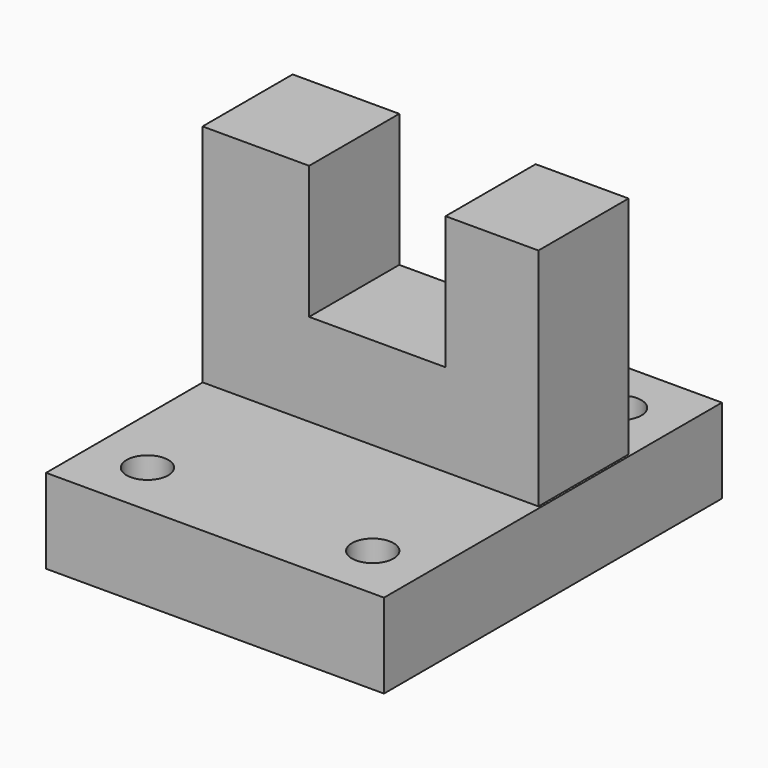
from build123d import *

# Parameters (mm, degrees)
F2_W     = 0.0470026281
F2_H     = 25.4
F2_W_2   = 75.699427795
F3_DEPTH = 50.8
F1_W     = 76.2
F1_H     = 95.25
F1_R     = 4.699
F4_DEPTH = 19.05
F5_W     = 30.7534076273
F5_H     = 29.9894312948
F6_DEPTH = 31.75


with BuildPart() as f3:
    # F2 (on face) → F3 (new body)
    with BuildSketch(Plane.XY):
        with Locations((-24.0185575915, 19.0019719303)):
            Rectangle(F2_W, F2_H)
        with Locations((13.85465762, 19.0019719303)):
            Rectangle(F2_W_2, F2_H)
    extrude(amount=F3_DEPTH)

    # F1 (on face) → F4 (join)
    with BuildSketch(Plane.XY):
        with Locations((14.1049437225, 9.770923992)):
            Rectangle(F1_W, F1_H)
        with Locations((-11.2950562775, -25.154076008)):
            Circle(F1_R, mode=Mode.SUBTRACT)
        with Locations((39.5049437225, -25.154076008)):
            Circle(F1_R, mode=Mode.SUBTRACT)
        with Locations((-11.2950562775, 44.695923992)):
            Circle(F1_R, mode=Mode.SUBTRACT)
        with Locations((39.5049437225, 44.695923992)):
            Circle(F1_R, mode=Mode.SUBTRACT)
    extrude(amount=-F4_DEPTH)

    # F5 (on face) → F6 (cut)
    with BuildSketch(Plane.XZ.offset(-6.3019719303)):
        with Locations((15.3767038137, 35.8052843526)):
            Rectangle(F5_W, F5_H)
    extrude(amount=-F6_DEPTH, mode=Mode.SUBTRACT)


solid = f3.part
